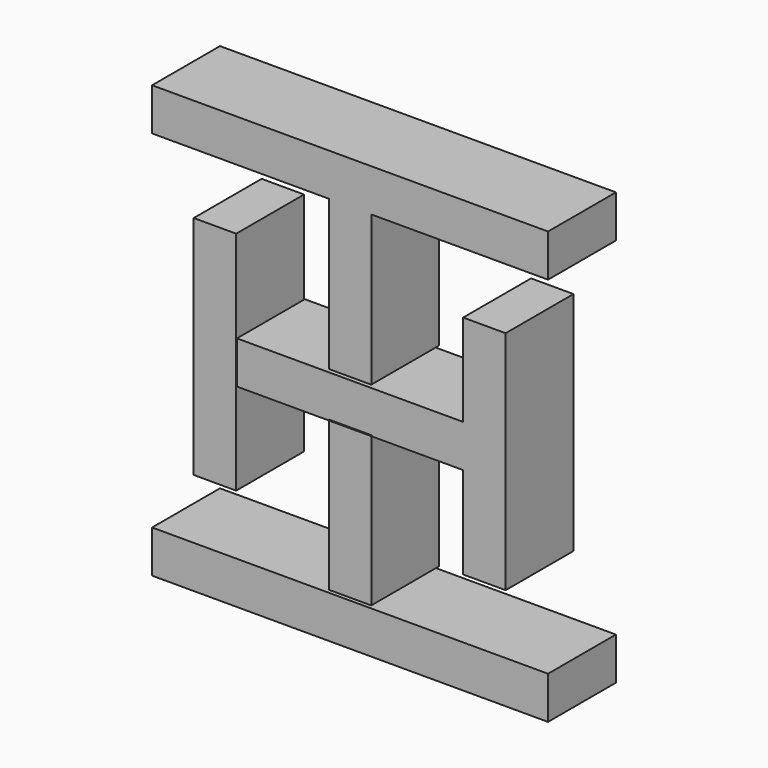
from build123d import *

# Parameters (mm, degrees)
F0_W     = 19.05
F0_H     = 101.6
F0_H_2   = 67.31
F0_H_3   = 66.908272
F0_W_2   = 177.8
F0_H_4   = 19.05
F1_DEPTH = 38.1


with BuildPart() as f1:
    # F0 (on Front) → F1 (new body)
    with BuildSketch(Plane.XZ):
        with Locations((-60.672719, 0)):
            Rectangle(F0_W, F0_H)
        Polygon((50.8, 9.525), (50.8, -9.525), (50.8, -50.8), (69.85, -50.8), (69.85, 50.8), (50.8, 50.8), align=None)
        Polygon((-9.525, -9.525), (-9.525, -9.123272), (9.525, -9.123272), (9.525, -9.525), (50.8, -9.525), (50.8, 9.525), (-50.8, 9.525), (-50.8, -9.525), align=None)
        with Locations((0, 44.49515)):
            Rectangle(F0_W, F0_H_2)
        with Locations((0, -42.979136)):
            Rectangle(F0_W, F0_H_3)
        with Locations((0, -87.155039)):
            Rectangle(F0_W_2, F0_H_4)
        Polygon((88.9, 97.20015), (-88.9, 97.20015), (-88.9, 78.15015), (-9.525, 78.15015), (9.525, 78.15015), (88.9, 78.15015), align=None)
    extrude(amount=F1_DEPTH)


solid = f1.part
